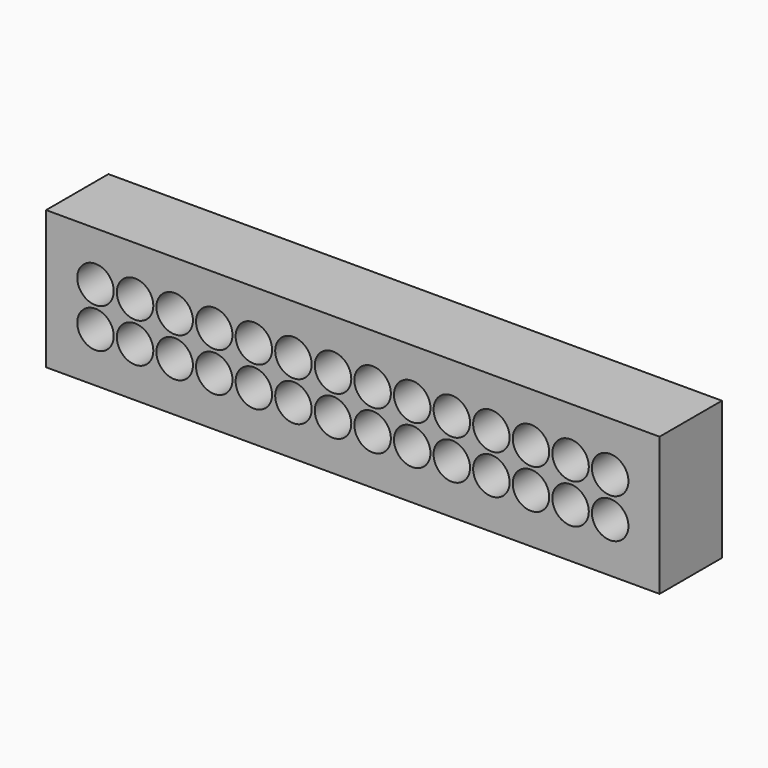
from build123d import *

# Parameters (mm, degrees)
F0_W     = 39.36
F0_H     = 8.88
F0_R     = 1.17
F1_DEPTH = 5


with BuildPart() as f1:
    # F0 (on Front) → F1 (new body)
    with BuildSketch(Plane.XZ):
        Rectangle(F0_W, F0_H)
        with Locations((-16.51, -1.27)):
            Circle(F0_R, mode=Mode.SUBTRACT)
        with Locations((-13.97, -1.27)):
            Circle(F0_R, mode=Mode.SUBTRACT)
        with Locations((-11.43, -1.27)):
            Circle(F0_R, mode=Mode.SUBTRACT)
        with Locations((-8.89, -1.27)):
            Circle(F0_R, mode=Mode.SUBTRACT)
        with Locations((-6.35, -1.27)):
            Circle(F0_R, mode=Mode.SUBTRACT)
        with Locations((-3.81, -1.27)):
            Circle(F0_R, mode=Mode.SUBTRACT)
        with Locations((-1.27, -1.27)):
            Circle(F0_R, mode=Mode.SUBTRACT)
        with Locations((1.27, -1.27)):
            Circle(F0_R, mode=Mode.SUBTRACT)
        with Locations((3.81, -1.27)):
            Circle(F0_R, mode=Mode.SUBTRACT)
        with Locations((6.35, -1.27)):
            Circle(F0_R, mode=Mode.SUBTRACT)
        with Locations((8.89, -1.27)):
            Circle(F0_R, mode=Mode.SUBTRACT)
        with Locations((11.43, -1.27)):
            Circle(F0_R, mode=Mode.SUBTRACT)
        with Locations((13.97, -1.27)):
            Circle(F0_R, mode=Mode.SUBTRACT)
        with Locations((16.51, -1.27)):
            Circle(F0_R, mode=Mode.SUBTRACT)
        with Locations((-16.51, 1.27)):
            Circle(F0_R, mode=Mode.SUBTRACT)
        with Locations((-13.97, 1.27)):
            Circle(F0_R, mode=Mode.SUBTRACT)
        with Locations((-11.43, 1.27)):
            Circle(F0_R, mode=Mode.SUBTRACT)
        with Locations((-8.89, 1.27)):
            Circle(F0_R, mode=Mode.SUBTRACT)
        with Locations((-6.35, 1.27)):
            Circle(F0_R, mode=Mode.SUBTRACT)
        with Locations((-3.81, 1.27)):
            Circle(F0_R, mode=Mode.SUBTRACT)
        with Locations((-1.27, 1.27)):
            Circle(F0_R, mode=Mode.SUBTRACT)
        with Locations((1.27, 1.27)):
            Circle(F0_R, mode=Mode.SUBTRACT)
        with Locations((3.81, 1.27)):
            Circle(F0_R, mode=Mode.SUBTRACT)
        with Locations((6.35, 1.27)):
            Circle(F0_R, mode=Mode.SUBTRACT)
        with Locations((8.89, 1.27)):
            Circle(F0_R, mode=Mode.SUBTRACT)
        with Locations((11.43, 1.27)):
            Circle(F0_R, mode=Mode.SUBTRACT)
        with Locations((13.97, 1.27)):
            Circle(F0_R, mode=Mode.SUBTRACT)
        with Locations((16.51, 1.27)):
            Circle(F0_R, mode=Mode.SUBTRACT)
    extrude(amount=F1_DEPTH)


solid = f1.part
